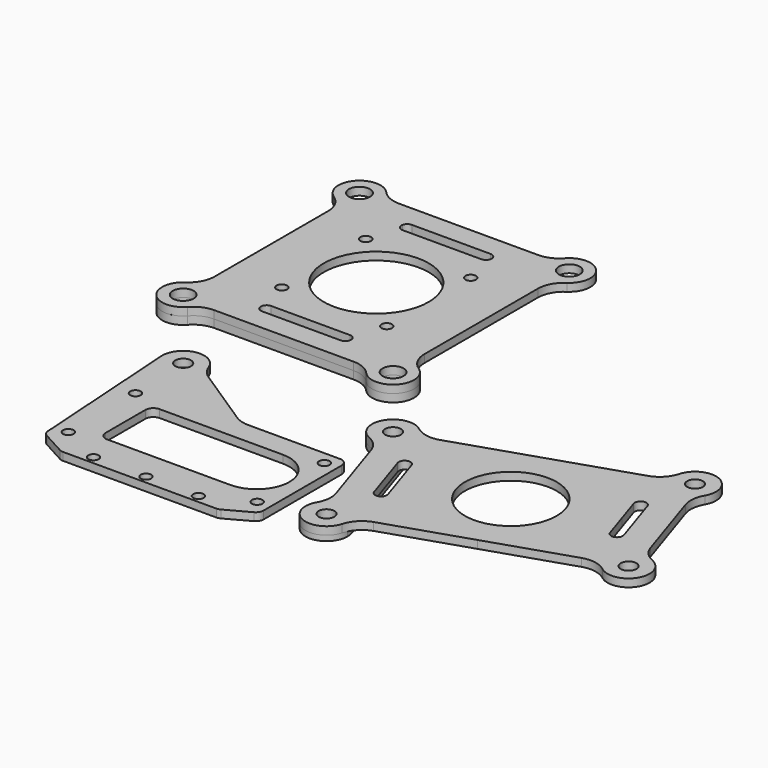
from build123d import *

# Parameters (mm, degrees)
F0_R      = 1
F0_R_2    = 1.5
F0_W      = 30
F0_H      = 3
F1_DEPTH  = 1.5
F3_R      = 2
F4_DEPTH  = 1.5
F5_R      = 5
F5_2_R    = 5
F5_3_R    = 5
F6_R      = 1.5
F7_DEPTH  = 0.5
F8_R      = 8.75
F8_R_2    = 1.5
F9_DEPTH  = 1.5
F10_R     = 2
F10_R_2   = 1
F10_R_3   = 10
F11_DEPTH = 1.5
F12_R     = 5
F12_2_R   = 5


with BuildPart() as f1:
    # F0 (on Top) → F1 (new body)
    with BuildSketch(Plane.XY):
        with BuildLine():
            Line((-32, -10.5), (-32, 10.5))
            Line((-32, 10.5), (-11.5, 10.5))
            Line((-11.5, 10.5), (-26, 20))
            ThreePointArc((-26, 20), (-29.8684978874, 16.0021621851), (-33.9913535972, 19.7371379408))
            Line((-33.9913535972, 19.7371379408), (-32, -10.5))
        make_face()
        Polygon((-11.5, 10.5), (-32, 10.5), (-32, -10.5), (-26.5, -10.5), (3.5, -10.5), (9, -10.5), (9, 10.5), align=None)
        with Locations((-29.5, -8)):
            Circle(F0_R, mode=Mode.SUBTRACT)
        with BuildLine():
            ThreePointArc((0, 6.25), (6.25, 0), (0, -6.25))
            Line((0, -6.25), (-23.5, -6.25))
            ThreePointArc((-23.5, -6.25), (-24.5606601718, -5.8106601718), (-25, -4.75))
            Line((-25, -4.75), (-25, 0))
            Line((-25, 0), (-25, 4.75))
            ThreePointArc((-25, 4.75), (-24.5606601718, 5.8106601718), (-23.5, 6.25))
            Line((-23.5, 6.25), (0, 6.25))
        make_face(mode=Mode.SUBTRACT)
        with Locations((6.5, -8)):
            Circle(F0_R, mode=Mode.SUBTRACT)
        with Locations((-29.5, 8)):
            Circle(F0_R, mode=Mode.SUBTRACT)
        with Locations((6.5, 8)):
            Circle(F0_R, mode=Mode.SUBTRACT)
        Polygon((-26.5, -10.5), (-32, -10.5), (-26.5, -13.5), align=None)
        with BuildLine():
            ThreePointArc((-33.9913535972, 19.7371379408), (-29.8684978874, 16.0021621851), (-26, 20))
            ThreePointArc((-26, 20), (-30.1315021126, 23.9978378149), (-33.9913535972, 19.7371379408))
        make_face()
        with Locations((-30, 20)):
            Circle(F0_R_2, mode=Mode.SUBTRACT)
        with Locations((-11.5, -12)):
            Rectangle(F0_W, F0_H)
        with Locations((-21.5, -12)):
            Circle(F0_R, mode=Mode.SUBTRACT)
        with Locations((-11.5, -12)):
            Circle(F0_R, mode=Mode.SUBTRACT)
        with Locations((-1.5, -12)):
            Circle(F0_R, mode=Mode.SUBTRACT)
        Polygon((3.5, -13.5), (9, -10.5), (3.5, -10.5), align=None)
    extrude(amount=F1_DEPTH)

    # F5#3
    f5_3_edges = [f1.edges().sort_by_distance(p)[0] for p in [
        (-26, 20, 0.75),
        (-11.5, 10.5, 0.75),
    ]]
    fillet(f5_3_edges, radius=F5_3_R)

    # F6
    f6_edges = [f1.edges().sort_by_distance(p)[0] for p in [
        (9, 10.5, 0.75),
        (-32, -10.5, 0.75),
        (9, -10.5, 0.75),
        (-26.5, -13.5, 0.75),
        (3.5, -13.5, 0.75),
    ]]
    fillet(f6_edges, radius=F6_R)


with BuildPart() as f1b:
    # F0 (on Top) → F1, piece 2 (new body)
    with BuildSketch(Plane.XY):
        with BuildLine():
            ThreePointArc((16.6377040645, -3.4712747467), (16.8735130453, -10.3492911096), (22.7938524157, -6.8404028665))
            ThreePointArc((22.7938524157, -6.8404028665), (22.7438350391, -6.2098179993), (22.5950337783, -5.5950032324))
            ThreePointArc((22.5950337783, -5.5950032324), (20.1370162451, -3.0726567329), (16.6377040645, -3.4712747467))
        make_face()
        with Locations((18.7938524157, -6.8404028665)):
            Circle(F0_R_2, mode=Mode.SUBTRACT)
        with BuildLine():
            ThreePointArc((16.6377040645, -3.4712747467), (20.1370162451, -3.0726567329), (22.5950337783, -5.5950032324))
            Line((22.5950337783, -5.5950032324), (13.8011813626, 21.2453996341))
            ThreePointArc((13.8011813626, 21.2453996341), (13.9499826234, 20.6305848672), (14, 20))
            ThreePointArc((14, 20), (12.9173815897, 17.263417339), (10.2555576699, 16.0081720632))
            Line((10.2555576699, 16.0081720632), (16.6377040645, -3.4712747467))
        make_face()
        with BuildLine():
            ThreePointArc((14, 20), (13.9499826234, 20.6305848672), (13.8011813626, 21.2453996341))
            ThreePointArc((13.8011813626, 21.2453996341), (6.6876864503, 22.242449319), (10.2555576699, 16.0081720632))
            ThreePointArc((10.2555576699, 16.0081720632), (12.9173815897, 17.263417339), (14, 20))
        make_face()
        with Locations((10, 20)):
            Circle(F0_R_2, mode=Mode.SUBTRACT)
    extrude(amount=F1_DEPTH)

    # F5
    f5_edges = [f1b.edges().sort_by_distance(p)[0] for p in [
        (10.255558, 16.008172, 0.75),
        (16.637704, -3.471275, 0.75),
    ]]
    fillet(f5_edges, radius=F5_R)

    # F7 (cut): a face of the model
    f7_faces = [f1b.faces().sort_by_distance(p)[0] for p in [
        (15.2199810724, 6.849460056, 0),
    ]]
    extrude(f7_faces, amount=-F7_DEPTH, mode=Mode.SUBTRACT)


with BuildPart() as f4:
    # F3 (on offset) → F4 (new body)
    with BuildSketch(Plane.XY.offset(10)):
        with BuildLine():
            Line((10, 24), (-30, 24))
            ThreePointArc((-30, 24), (-33.1622776602, 17.5505102572), (-26.1270166538, 19))
            Line((-26.1270166538, 19), (6.1270166538, 19))
            ThreePointArc((6.1270166538, 19), (13.1622776602, 17.5505102572), (10, 24))
        make_face()
        with Locations((-30, 20)):
            Circle(F3_R, mode=Mode.SUBTRACT)
        with Locations((10, 20)):
            Circle(F3_R, mode=Mode.SUBTRACT)
    extrude(amount=F4_DEPTH)

    # F5#2
    f5_2_edges = [f4.edges().sort_by_distance(p)[0] for p in [
        (-26.127017, 19, 10.75),
        (6.127017, 19, 10.75),
    ]]
    fillet(f5_2_edges, radius=F5_2_R)


with BuildPart() as f9:
    # F8 (on face) → F9 (new body)
    with BuildSketch(Plane.XY.offset(1.5)):
        Polygon((13.8011813626, 21.2453996341), (22.5950337783, -5.5950032324), (41.6009405914, 0.6319949379), (60.6068474044, 6.8589931082), (51.8129949887, 33.6993959747), (32.8070881757, 27.4723978044), align=None)
        with BuildLine():
            ThreePointArc((22.0427262889, 3.4629088832), (21.1161371274, 2.3766636618), (19.8974014142, 3.1204239838))
            Line((19.8974014142, 3.1204239838), (18.3406518716, 7.8719006871))
            Line((18.3406518716, 7.8719006871), (16.783902329, 12.6233773904))
            ThreePointArc((16.783902329, 12.6233773904), (17.4867423043, 14.0111871644), (18.8745520784, 13.3083471891))
            Line((18.8745520784, 13.3083471891), (20.431301621, 8.5568704858))
            Line((20.431301621, 8.5568704858), (21.9880511636, 3.8053937826))
            ThreePointArc((21.9880511636, 3.8053937826), (22.0289715103, 3.6363197217), (22.0427262889, 3.4629088832))
        make_face(mode=Mode.SUBTRACT)
        with Locations((37.2040143835, 14.0521963711)):
            Circle(F8_R, mode=Mode.SUBTRACT)
        with BuildLine():
            ThreePointArc((52.4199776035, 24.2989989597), (53.1228175788, 25.6868087338), (54.5106273529, 24.9839687585))
            Line((54.5106273529, 24.9839687585), (56.0673768955, 20.2324920552))
            Line((56.0673768955, 20.2324920552), (57.6241264381, 15.4810153519))
            ThreePointArc((57.6241264381, 15.4810153519), (57.6650467848, 15.3119412911), (57.6788015634, 15.1385304526))
            ThreePointArc((57.6788015634, 15.1385304526), (56.7522124018, 14.0522852311), (55.5334766886, 14.7960455532))
            Line((55.5334766886, 14.7960455532), (53.9767271461, 19.5475222565))
            Line((53.9767271461, 19.5475222565), (52.4199776035, 24.2989989597))
        make_face(mode=Mode.SUBTRACT)
        with BuildLine():
            ThreePointArc((15.331465427, -4.837435982), (18.3789157438, -10.8188231005), (22.5950337783, -5.5950032324))
            Line((22.5950337783, -5.5950032324), (13.8011813626, 21.2453996341))
            ThreePointArc((13.8011813626, 21.2453996341), (7.3112850858, 22.9615556909), (8.3941451719, 16.3365002701))
            ThreePointArc((8.3941451719, 16.3365002701), (10.0887712504, 15.1180192504), (11.13830334, 13.3138751503))
            Line((11.13830334, 13.3138751503), (15.7549583944, -0.7769778338))
            ThreePointArc((15.7549583944, -0.7769778338), (15.9765069836, -2.8523982163), (15.331465427, -4.837435982))
        make_face()
        with Locations((18.7938524157, -6.8404028665)):
            Circle(F8_R_2, mode=Mode.SUBTRACT)
        with Locations((10, 20)):
            Circle(F8_R_2, mode=Mode.SUBTRACT)
        with BuildLine():
            Line((51.8129949887, 33.6993959747), (60.6068474044, 6.8589931082))
            ThreePointArc((60.6068474044, 6.8589931082), (67.0967436812, 5.1428370514), (66.0138835952, 11.7678924722))
            ThreePointArc((66.0138835952, 11.7678924722), (64.3192575167, 12.9863734919), (63.269725427, 14.790517592))
            Line((63.269725427, 14.790517592), (58.6530703727, 28.8813705761))
            ThreePointArc((58.6530703727, 28.8813705761), (58.4315217834, 30.9567909586), (59.0765633401, 32.9418287243))
            ThreePointArc((59.0765633401, 32.9418287243), (56.0291130232, 38.9232158428), (51.8129949887, 33.6993959747))
        make_face()
        with Locations((64.4080287671, 8.1043927423)):
            Circle(F8_R_2, mode=Mode.SUBTRACT)
        with Locations((55.6141763513, 34.9447956088)):
            Circle(F8_R_2, mode=Mode.SUBTRACT)
    extrude(amount=F9_DEPTH)

    # F12
    f12_edges = [f9.edges().sort_by_distance(p)[0] for p in [
        (22.595034, -5.595003, 2.25),
        (60.606847, 6.858993, 2.25),
        (51.812995, 33.699396, 2.25),
        (13.801181, 21.2454, 2.25),
    ]]
    fillet(f12_edges, radius=F12_R)


with BuildPart() as f11:
    # F10 (on face) → F11 (new body)
    with BuildSketch(Plane.XY.offset(11.5)):
        with BuildLine():
            Line((-18.5712142643, 24), (-30, 24))
            ThreePointArc((-30, 24), (-33.6514837167, 18.3670068381), (-27.01857603, 17.3333333333))
            ThreePointArc((-27.01857603, 17.3333333333), (-25.3330375198, 18.5643546459), (-23.2917960675, 19))
            Line((-23.2917960675, 19), (3.2917960675, 19))
            ThreePointArc((3.2917960675, 19), (5.3330375198, 18.5643546459), (7.01857603, 17.3333333333))
            ThreePointArc((7.01857603, 17.3333333333), (13.6514837167, 18.3670068381), (10, 24))
            Line((10, 24), (-1.4287857357, 24))
            ThreePointArc((-1.4287857357, 24), (-1.8162602834, 23.388315603), (-2.5, 23.15))
            Line((-2.5, 23.15), (-10, 23.15))
            Line((-10, 23.15), (-17.5, 23.15))
            ThreePointArc((-17.5, 23.15), (-18.1837397166, 23.388315603), (-18.5712142643, 24))
        make_face()
        with Locations((-30, 20)):
            Circle(F10_R, mode=Mode.SUBTRACT)
        with Locations((10, 20)):
            Circle(F10_R, mode=Mode.SUBTRACT)
        with BuildLine():
            Line((-30, 58), (-30, 24))
            Line((-30, 24), (-18.5712142643, 24))
            ThreePointArc((-18.5712142643, 24), (-18.361684397, 24.9337397166), (-17.5, 25.35))
            Line((-17.5, 25.35), (-10, 25.35))
            Line((-10, 25.35), (-2.5, 25.35))
            ThreePointArc((-2.5, 25.35), (-1.7221825407, 25.0278174593), (-1.4, 24.25))
            ThreePointArc((-1.4, 24.25), (-1.4072201295, 24.1241741098), (-1.4287857357, 24))
            Line((-1.4287857357, 24), (10, 24))
            Line((10, 24), (10, 58))
            Line((10, 58), (-1.4287857357, 58))
            ThreePointArc((-1.4287857357, 58), (-1.4072201295, 57.8758258902), (-1.4, 57.75))
            ThreePointArc((-1.4, 57.75), (-1.7221825407, 56.9721825407), (-2.5, 56.65))
            Line((-2.5, 56.65), (-10, 56.65))
            Line((-10, 56.65), (-17.5, 56.65))
            ThreePointArc((-17.5, 56.65), (-18.361684397, 57.0662602834), (-18.5712142643, 58))
            Line((-18.5712142643, 58), (-30, 58))
        make_face()
        with Locations((-20, 31)):
            Circle(F10_R_2, mode=Mode.SUBTRACT)
        with Locations((0, 31)):
            Circle(F10_R_2, mode=Mode.SUBTRACT)
        with Locations((-10, 41)):
            Circle(F10_R_3, mode=Mode.SUBTRACT)
        with Locations((-20, 51)):
            Circle(F10_R_2, mode=Mode.SUBTRACT)
        with Locations((0, 51)):
            Circle(F10_R_2, mode=Mode.SUBTRACT)
        with BuildLine():
            ThreePointArc((-27.01857603, 64.6666666667), (-33.6514837167, 63.6329931619), (-30, 58))
            Line((-30, 58), (-18.5712142643, 58))
            ThreePointArc((-18.5712142643, 58), (-18.1837397166, 58.611684397), (-17.5, 58.85))
            Line((-17.5, 58.85), (-10, 58.85))
            Line((-10, 58.85), (-2.5, 58.85))
            ThreePointArc((-2.5, 58.85), (-1.8162602834, 58.611684397), (-1.4287857357, 58))
            Line((-1.4287857357, 58), (10, 58))
            ThreePointArc((10, 58), (13.6514837167, 63.6329931619), (7.01857603, 64.6666666667))
            ThreePointArc((7.01857603, 64.6666666667), (5.3330375198, 63.4356453541), (3.2917960675, 63))
            Line((3.2917960675, 63), (-23.2917960675, 63))
            ThreePointArc((-23.2917960675, 63), (-25.3330375198, 63.4356453541), (-27.01857603, 64.6666666667))
        make_face()
        with Locations((-30, 62)):
            Circle(F10_R, mode=Mode.SUBTRACT)
        with Locations((10, 62)):
            Circle(F10_R, mode=Mode.SUBTRACT)
    extrude(amount=F11_DEPTH)

    # F12#2
    f12_2_edges = [f11.edges().sort_by_distance(p)[0] for p in [
        (10, 58, 12.25),
        (10, 24, 12.25),
        (-30, 24, 12.25),
        (-30, 58, 12.25),
    ]]
    fillet(f12_2_edges, radius=F12_2_R)


solid = Compound([f1.part, f1b.part, f4.part, f9.part, f11.part])
